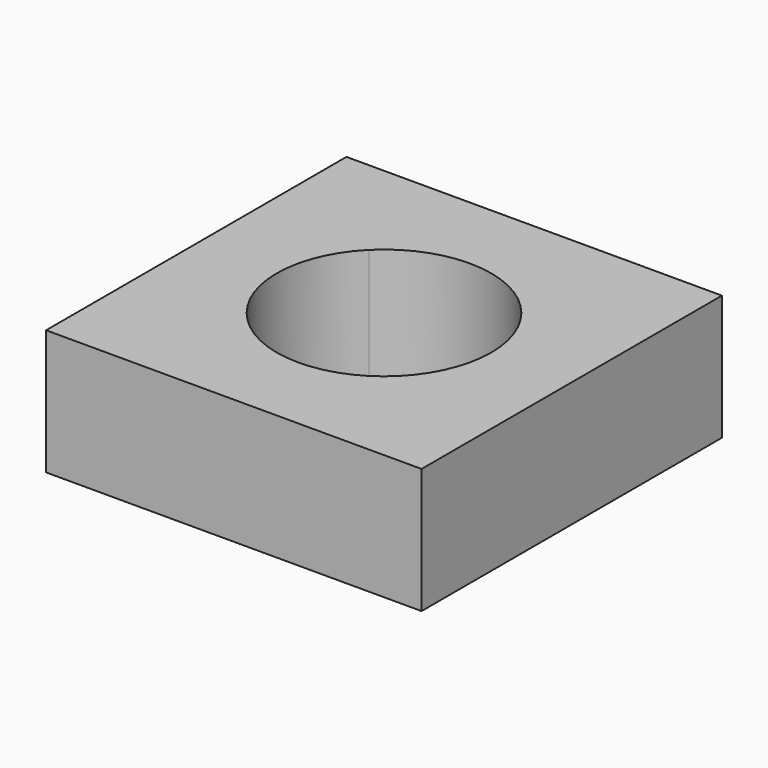
from build123d import *

# Parameters (mm, degrees)
F0_W     = 76.2
F0_H     = 76.2
F1_DEPTH = 25.4
F3_DEPTH = 54.55745


with BuildPart() as f1:
    # F0 (on Top) → F1 (new body)
    with BuildSketch(Plane.XY):
        with Locations((-38.1, 38.1)):
            Rectangle(F0_W, F0_H)
    extrude(amount=F1_DEPTH)

    # F2 (on face) → F3 (cut)
    with BuildSketch(Plane(origin=(0, 0, 0), x_dir=(1, 0, 0), z_dir=(0, 0, -1))):
        with BuildLine():
            Line((-38.1, -38.1), (-53.4928214914, -22.7071785086))
            ThreePointArc((-53.4928214914, -22.7071785086), (-59.8687369164, -38.1), (-53.4928214914, -53.4928214914))
            Line((-53.4928214914, -53.4928214914), (-38.1, -38.1))
        make_face()
        with BuildLine():
            Line((-38.1, -38.1), (-22.7071785086, -22.7071785086))
            ThreePointArc((-22.7071785086, -22.7071785086), (-38.1, -16.3312630836), (-53.4928214914, -22.7071785086))
            Line((-53.4928214914, -22.7071785086), (-38.1, -38.1))
        make_face()
        with BuildLine():
            ThreePointArc((-22.7071785086, -53.4928214914), (-17.9883095143, -46.4305349614), (-16.3312630836, -38.1))
            ThreePointArc((-16.3312630836, -38.1), (-17.9883095143, -29.7694650386), (-22.7071785086, -22.7071785086))
            Line((-22.7071785086, -22.7071785086), (-38.1, -38.1))
            Line((-38.1, -38.1), (-22.7071785086, -53.4928214914))
        make_face()
        with BuildLine():
            ThreePointArc((-53.4928214914, -53.4928214914), (-38.1, -59.8687369164), (-22.7071785086, -53.4928214914))
            Line((-22.7071785086, -53.4928214914), (-38.1, -38.1))
            Line((-38.1, -38.1), (-53.4928214914, -53.4928214914))
        make_face()
    extrude(amount=-F3_DEPTH, mode=Mode.SUBTRACT)


solid = f1.part
